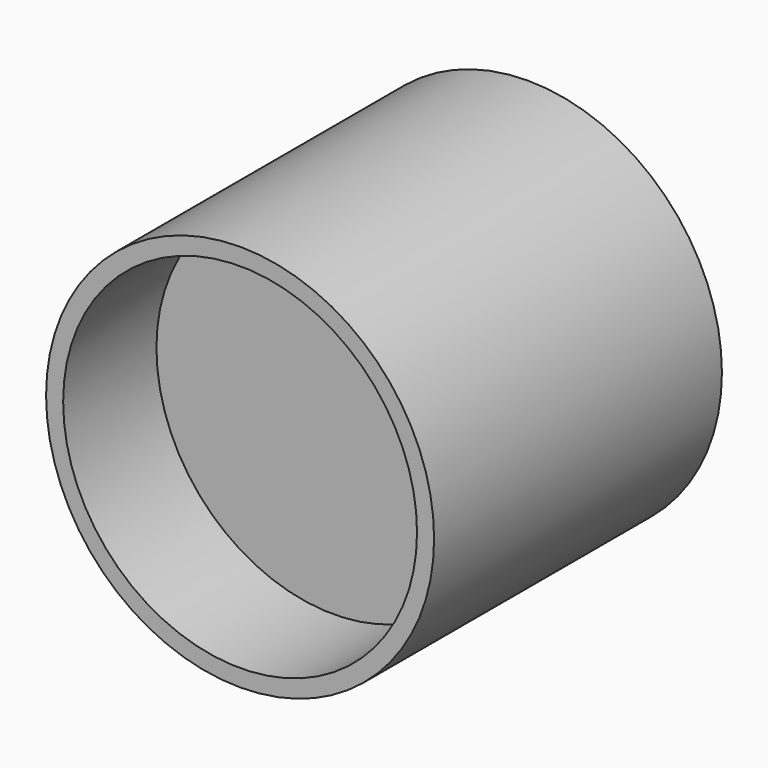
from build123d import *

# Parameters (mm, degrees)
F1_DEPTH = 78.3572047949
F2_R     = 38.5370833617
F3_DEPTH = 25.4
F5_W     = 13.0668841302
F5_H     = 27.1093435585
F5_W_2   = 25.3738258034
F5_H_2   = 12.5543624163
F6_DEPTH = 5.4576825351


with BuildPart() as f1:
    # F0 (on Front) → F1 (new body)
    with BuildSketch(Plane.XZ):
        with BuildLine():
            ThreePointArc((0, 42.2524884343), (-29.8770210939, -29.8770210939), (42.2524884343, 0))
            ThreePointArc((42.2524884343, 0), (29.8770210939, 29.8770210939), (0, 42.2524884343))
        make_face()
    extrude(amount=F1_DEPTH)

    # F2 (on face) → F3 (cut)
    with BuildSketch(Plane.XZ.offset(78.3572047949)):
        Circle(F2_R)
    extrude(amount=-F3_DEPTH, mode=Mode.SUBTRACT)

    # F5 (on face) → F6 (join)
    with BuildSketch(Plane(origin=(0, 0, 0), x_dir=(-1, 0, 0), z_dir=(0, 1, 0))):
        with Locations((0, 19.8318529874)):
            Rectangle(F5_W, F5_H)
        with Locations((19.2203549668, 0)):
            Rectangle(F5_W_2, F5_H_2)
        with Locations((0, -19.8318529874)):
            Rectangle(F5_W, F5_H)
        with Locations((-19.2203549668, 0)):
            Rectangle(F5_W_2, F5_H_2)
        Rectangle(F5_W, F5_H_2)
    extrude(amount=F6_DEPTH)


solid = f1.part
